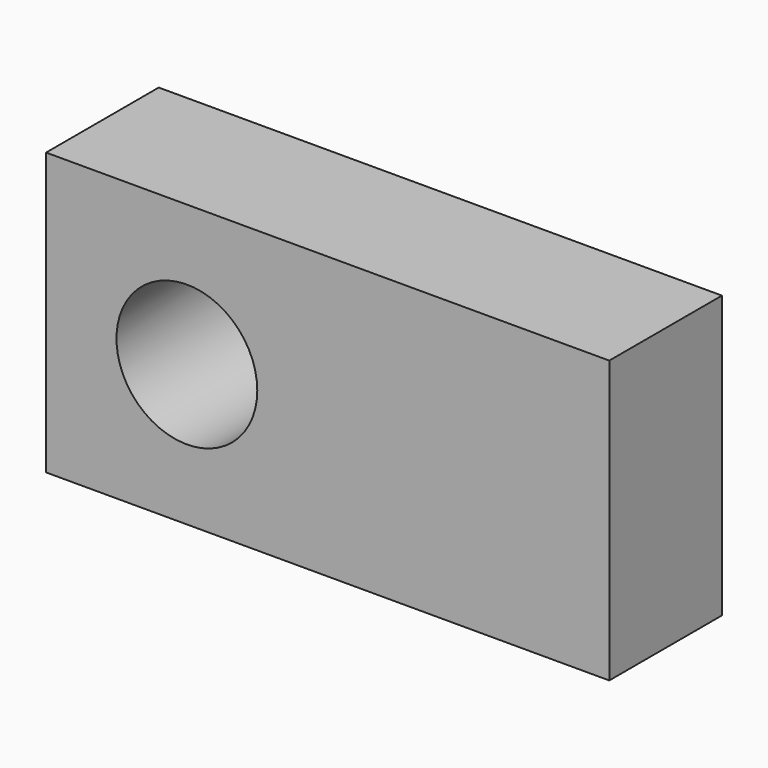
from build123d import *

# Parameters (mm, degrees)
F0_W     = 100
F0_H     = 100
F0_R     = 25
F1_DEPTH = 50


with BuildPart() as f1:
    # F0 (on Front) → F1 (new body)
    with BuildSketch(Plane.XZ):
        with Locations((-50, 50)):
            Rectangle(F0_W, F0_H)
        with Locations((-150, 50)):
            Rectangle(F0_W, F0_H)
        with Locations((-150, 50)):
            Circle(F0_R, mode=Mode.SUBTRACT)
    extrude(amount=F1_DEPTH)


solid = f1.part
